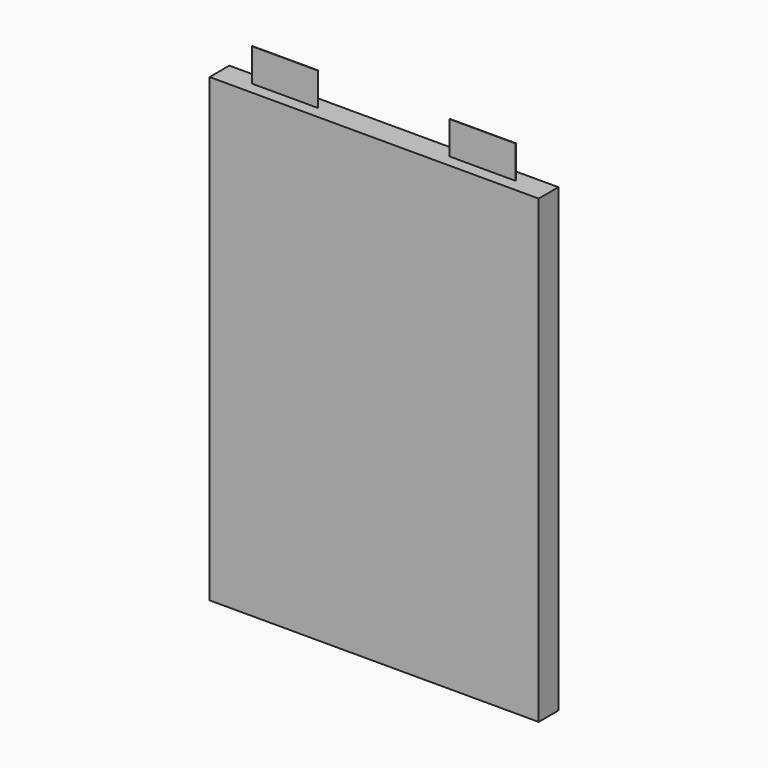
from build123d import *

# Parameters (mm, degrees)
F0_W     = 127
F0_H     = 177.8
F1_DEPTH = 9.525
F2_W     = 25.4
F2_H     = 0.1524
F3_DEPTH = 12.7


with BuildPart() as f1:
    # F0 (on Front) → F1 (new body)
    with BuildSketch(Plane.XZ):
        Rectangle(F0_W, F0_H)
    extrude(amount=F1_DEPTH)

    # F2 (on face) → F3 (join)
    with BuildSketch(Plane.XY.offset(88.9)):
        with Locations((38.1, -4.7625)):
            Rectangle(F2_W, F2_H)
        with Locations((-38.1, -4.8387)):
            Rectangle(F2_W, F2_H)
    extrude(amount=F3_DEPTH)


solid = f1.part
